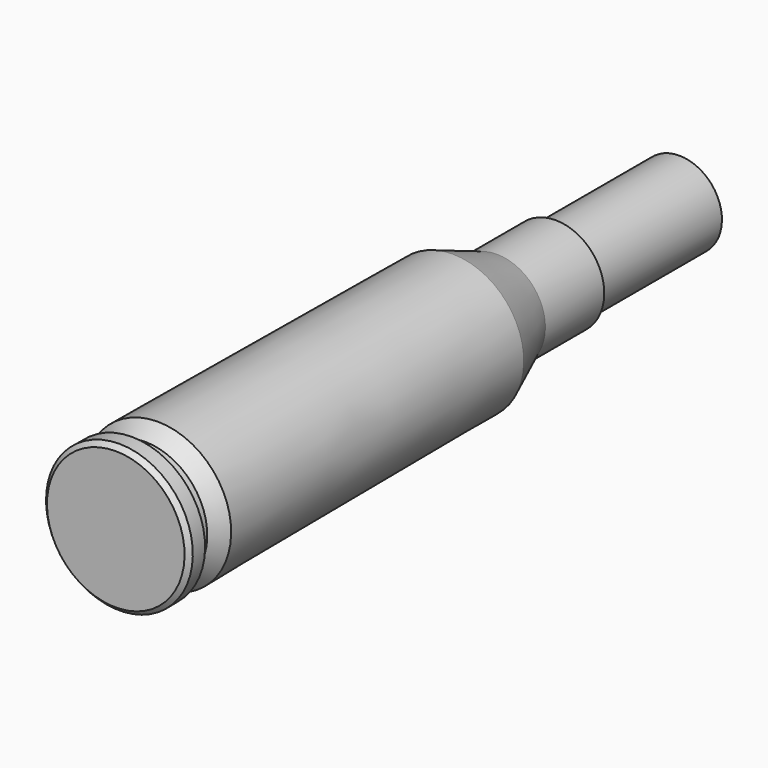
from build123d import *

# Parameters (mm, degrees)
F0_W   = 0.9
F0_H   = 3.4
F0_W_2 = 8.45
F0_H_2 = 2.325


with BuildPart() as f1:
    # F0 (on Right) → F1 (revolve)
    with BuildSketch(Plane.YZ):
        Polygon((0, 3.76), (0, 0), (0.25, 0), (1.1, 0), (1.1, 3.4), (1.1, 4), (0.25, 4.01), align=None)
        with Locations((1.55, 1.7)):
            Rectangle(F0_W, F0_H)
        Polygon((2, 3.4), (2, 0), (2.87, 0), (2.87, 4.01), align=None)
        Polygon((2.87, 4.01), (2.87, 0), (23.02, 0), (23.02, 3.875), align=None)
        Polygon((23.02, 3.875), (23.02, 0), (26.03, 0), (30.05, 0), (30.05, 2.325), (30.05, 2.655), (26.03, 2.655), align=None)
        with Locations((34.275, 1.1625)):
            Rectangle(F0_W_2, F0_H_2)
    revolve(axis=Axis((0, 12.945, 0), (0, 1, 0)))


solid = f1.part
